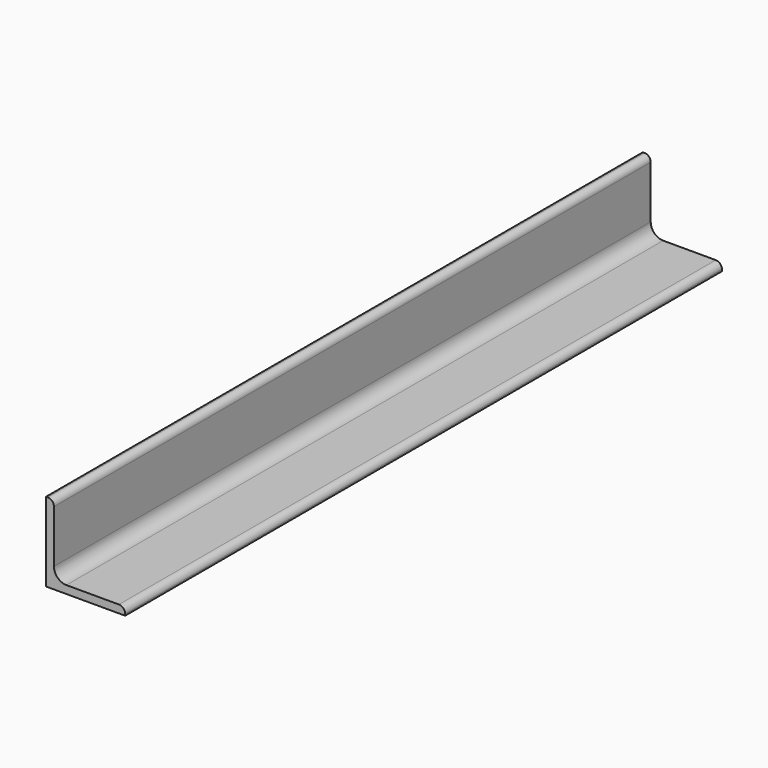
from build123d import *

# Parameters (mm, degrees)
F1_DEPTH = 300


with BuildPart() as f1:
    # F0 (on Front) → F1 (new body)
    with BuildSketch(Plane.XZ):
        with BuildLine():
            Line((-9.480181, 31.8), (-10.150181, 31.8))
            Line((-10.150181, 31.8), (-10.150181, 0))
            Line((-10.150181, 0), (21.649819, 0))
            Line((21.649819, 0), (21.649819, 0.67))
            ThreePointArc((21.649819, 0.67), (20.917586, 2.437767), (19.149819, 3.17))
            Line((19.149819, 3.17), (-1.980181, 3.17))
            ThreePointArc((-1.980181, 3.17), (-5.515715, 4.634466), (-6.980181, 8.17))
            Line((-6.980181, 8.17), (-6.980181, 29.3))
            ThreePointArc((-6.980181, 29.3), (-7.712414, 31.067767), (-9.480181, 31.8))
        make_face()
    extrude(amount=F1_DEPTH)


solid = f1.part
